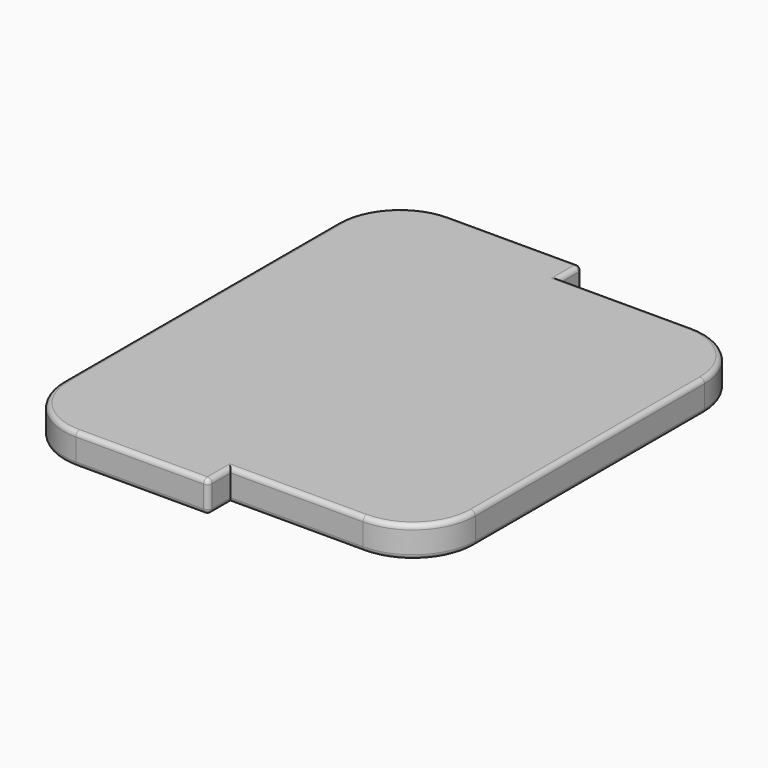
from build123d import *

# Parameters (mm, degrees)
F1_W     = 250
F1_H     = 300
F2_DEPTH = 20
F3_DEPTH = 18
F4_W     = 125
F4_H     = 20
F5_DEPTH = 18
F6_R     = 40
F7_R     = 3


with BuildPart() as f2:
    # F1 (on Top) → F2 (new body)
    with BuildSketch(Plane.XY):
        with Locations((0, 150)):
            Rectangle(F1_W, F1_H)
    extrude(amount=-F2_DEPTH)

    # F0 (on Front) → F3 (cut)
    with BuildSketch(Plane.XZ):
        with BuildLine():
            ThreePointArc((160.7967353507, 4.0303440201), (159.065909211, 1.1368225578), (155.8916596855, 0))
            Line((155.8916596855, 0), (45.0975336134, 0))
            Line((45.0975336134, 0), (45.0975336134, -5))
            Line((45.0975336134, -5), (0, -5))
            Line((0, -5), (0, -20.7676107392))
            ThreePointArc((0, -20.7676107392), (2.6525588341, -27.5510544306), (9.2030216628, -30.7358014241))
            Line((9.2030216628, -30.7358014241), (175.0106296305, -43.9924771707))
            ThreePointArc((175.0106296305, -43.9924771707), (194.4976732451, -37.7783808724), (204.0363591727, -19.684919832))
            Line((204.0363591727, -19.684919832), (219.923475276, 144.1129544091))
            ThreePointArc((219.923475276, 144.1129544091), (217.690858581, 151.4337512548), (210.9355750829, 155.0316379433))
            Line((210.9355750829, 155.0316379433), (195.5381857284, 156.525064604))
            ThreePointArc((195.5381857284, 156.525064604), (192.0716412109, 155.5604813638), (190.150414228, 152.518074652))
            Line((190.150414228, 152.518074652), (160.7967353507, 4.0303440201))
        make_face()
        with BuildLine():
            Line((45.0975336134, -5), (45.0975336134, 0))
            Line((45.0975336134, 0), (5, 0))
            ThreePointArc((5, 0), (1.4644660941, -1.4644660941), (0, -5))
            Line((0, -5), (45.0975336134, -5))
        make_face()
        with BuildLine():
            Line((5, 0), (45.0975336134, 0))
            Line((45.0975336134, 0), (45.0975336134, 7.6496871188))
            Line((45.0975336134, 7.6496871188), (0, 7.6496871188))
            Line((0, 7.6496871188), (0, -5))
            ThreePointArc((0, -5), (1.4644660941, -1.4644660941), (5, 0))
        make_face()
    extrude(amount=-F3_DEPTH, mode=Mode.SUBTRACT)

    # F4 (on face) → F5 (cut)
    with BuildSketch(Plane(origin=(0, 300, 0), x_dir=(-1, 0, 0), z_dir=(0, 1, 0))):
        with Locations((-62.5, -10)):
            Rectangle(F4_W, F4_H)
    extrude(amount=-F5_DEPTH, mode=Mode.SUBTRACT)

    # F6
    f6_edges = [f2.edges().sort_by_distance(p)[0] for p in [
        (-125, 300, -10),
        (-125, 0, -10),
        (125, 282, -10),
        (125, 18, -10),
    ]]
    fillet(f6_edges, radius=F6_R)

    # F7
    f7_edges = [f2.edges().sort_by_distance(p)[0] for p in [
        (0, 0, -10),
        (0, 300, -10),
        (42.5, 282, 0),
        (113.284271, 270.284271, 0),
        (0, 291, 0),
        (125, 150, 0),
        (-42.5, 300, 0),
        (113.284271, 29.715729, 0),
        (-113.284271, 288.284271, 0),
        (42.5, 18, 0),
        (-125, 150, 0),
        (0, 9, 0),
        (-113.284271, 11.715729, 0),
        (-42.5, 0, 0),
        (42.5, 282, -20),
        (113.284271, 270.284271, -20),
        (0, 291, -20),
        (125, 150, -20),
        (-42.5, 300, -20),
        (113.284271, 29.715729, -20),
        (-113.284271, 288.284271, -20),
        (42.5, 18, -20),
        (-125, 150, -20),
        (0, 9, -20),
        (-113.284271, 11.715729, -20),
        (-42.5, 0, -20),
    ]]
    fillet(f7_edges, radius=F7_R)


solid = f2.part
